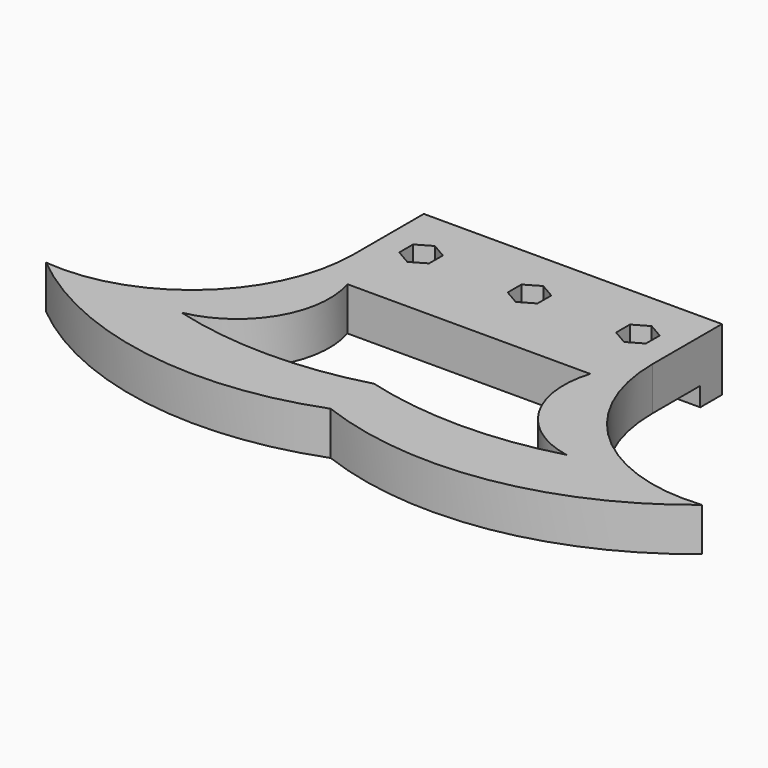
from build123d import *

# Parameters (mm, degrees)
F0_W     = 55
F0_H     = 5
F0_H_2   = 11
F1_DEPTH = 8
F0_R     = 1.75
F2_DEPTH = 4
F3_DEPTH = 3.5


with BuildPart() as f1:
    # F0 (on Top) → F1 (new body)
    with BuildSketch(Plane.XY):
        with Locations((0, 5.5)):
            Rectangle(F0_W, F0_H)
        with Locations((0, -2.5)):
            Rectangle(F0_W, F0_H_2)
        Polygon((-20, 1.175426), (-17.25, -0.412287), (-17.25, -3.587713), (-20, -5.175426), (-22.75, -3.587713), (-22.75, -0.412287), align=None, mode=Mode.SUBTRACT)
        Polygon((0, -5.175426), (-2.75, -3.587713), (-2.75, -0.412287), (0, 1.175426), (2.75, -0.412287), (2.75, -3.587713), align=None, mode=Mode.SUBTRACT)
        Polygon((17.25, -3.587713), (17.25, -0.412287), (20, 1.175426), (22.75, -0.412287), (22.75, -3.587713), (20, -5.175426), align=None, mode=Mode.SUBTRACT)
        with BuildLine():
            Line((27.5, -8), (-27.5, -8))
            ThreePointArc((-27.5, -8), (-37.375388, -30.248595), (-60.5, -37.849623))
            ThreePointArc((-60.5, -37.849623), (-31.597894, -51.004383), (0, -47.849623))
            ThreePointArc((0, -47.849623), (31.597894, -51.004383), (60.5, -37.849623))
            ThreePointArc((60.5, -37.849623), (37.375388, -30.248595), (27.5, -8))
        make_face()
        with BuildLine():
            ThreePointArc((-35.5, -37.849623), (-24.035615, -29.871255), (-22.400142, -16))
            Line((-22.400142, -16), (22.400142, -16))
            ThreePointArc((22.400142, -16), (24.035615, -29.871255), (35.5, -37.849623))
            ThreePointArc((35.5, -37.849623), (17.75, -40.253807), (0, -37.849623))
            ThreePointArc((0, -37.849623), (-17.75, -40.253807), (-35.5, -37.849623))
        make_face(mode=Mode.SUBTRACT)
    extrude(amount=F1_DEPTH)

    # F0 (on Top) → F2 (join)
    with BuildSketch(Plane.XY):
        Polygon((-17.25, -3.587713), (-17.25, -0.412287), (-20, 1.175426), (-22.75, -0.412287), (-22.75, -3.587713), (-20, -5.175426), align=None)
        with Locations((-20, -2)):
            Circle(F0_R, mode=Mode.SUBTRACT)
        Polygon((-2.75, -0.412287), (-2.75, -3.587713), (0, -5.175426), (2.75, -3.587713), (2.75, -0.412287), (0, 1.175426), align=None)
        with Locations((0, -2)):
            Circle(F0_R, mode=Mode.SUBTRACT)
        Polygon((20, 1.175426), (17.25, -0.412287), (17.25, -3.587713), (20, -5.175426), (22.75, -3.587713), (22.75, -0.412287), align=None)
        with Locations((20, -2)):
            Circle(F0_R, mode=Mode.SUBTRACT)
    extrude(amount=F2_DEPTH)

    # F0 (on Top) → F3 (join)
    with BuildSketch(Plane.XY):
        with Locations((0, 5.5)):
            Rectangle(F0_W, F0_H)
    extrude(amount=-F3_DEPTH)


solid = f1.part
